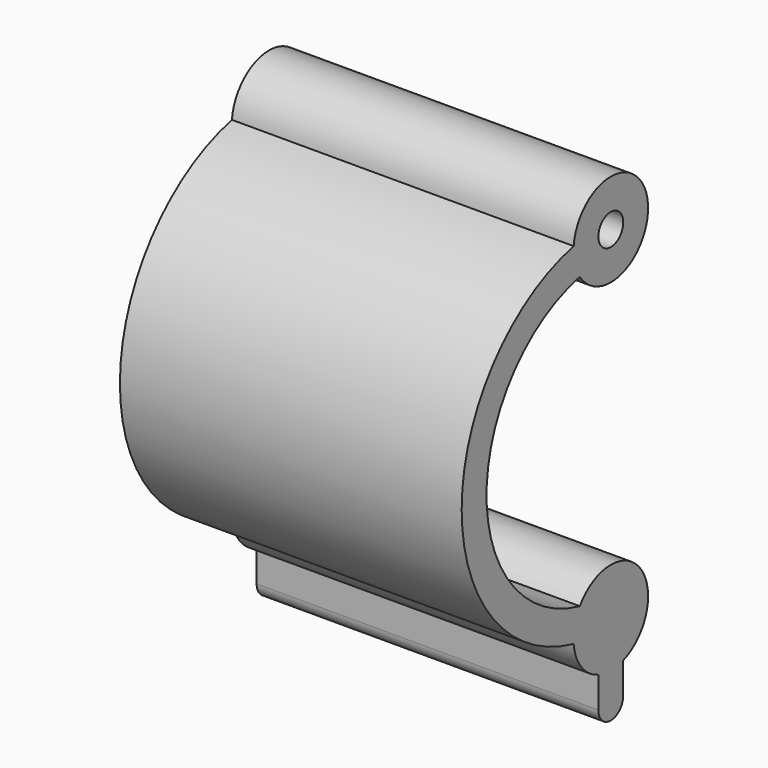
from build123d import *

# Parameters (mm, degrees)
F0_R     = 1.5
F1_DEPTH = 33


with BuildPart() as f1:
    # F0 (on Right) → F1 (new body)
    with BuildSketch(Plane.YZ):
        with BuildLine():
            ThreePointArc((-3.741657, 0), (-15, 14), (-3.741657, 28))
            ThreePointArc((-3.741657, 28), (4.361176, 31.609118), (-4.481398, 30.908744))
            ThreePointArc((-4.481398, 30.908744), (-18, 14), (-4.481398, -2.908744))
            ThreePointArc((-4.481398, -2.908744), (-3.552319, -5.262432), (-1.5, -6.742641))
            Line((-1.5, -6.742641), (-1.5, -9.742641))
            ThreePointArc((-1.5, -9.742641), (0, -11.242641), (1.5, -9.742641))
            Line((1.5, -9.742641), (1.5, -6.742641))
            ThreePointArc((1.5, -6.742641), (3.552754, 0.261873), (-3.741657, 0))
        make_face()
        with Locations((0, -2.5)):
            Circle(F0_R, mode=Mode.SUBTRACT)
        with Locations((0, 30.5)):
            Circle(F0_R, mode=Mode.SUBTRACT)
        with Locations((0, -2.5)):
            Circle(F0_R)
    extrude(amount=F1_DEPTH)


solid = f1.part
